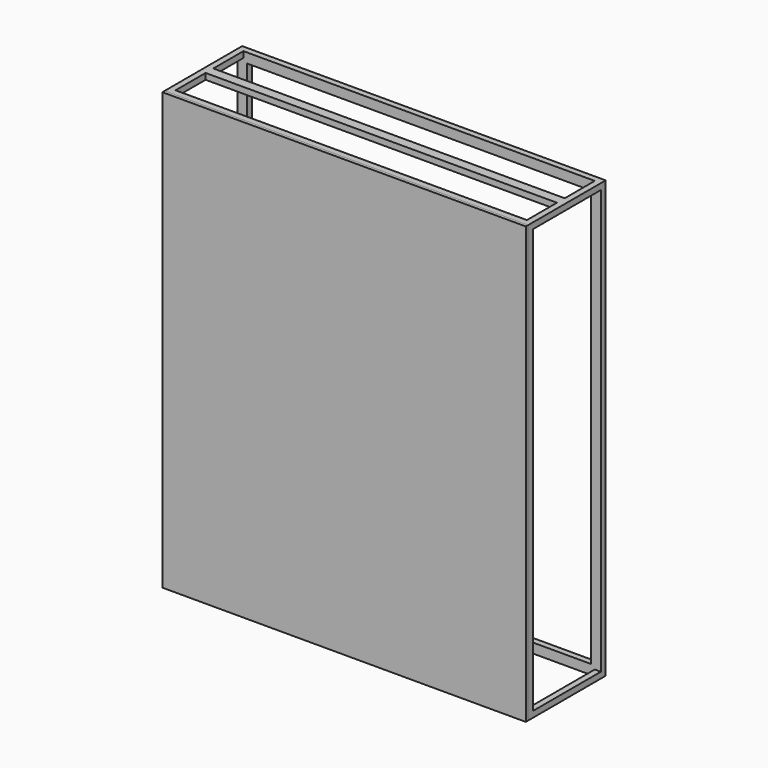
from build123d import *

# Parameters (mm, degrees)
F0_W      = 1500
F0_H      = 400
F1_DEPTH  = 900
F2_W      = 1420
F2_H      = 1720
F3_DEPTH  = 400.001
F4_W      = 350
F4_H      = 1750
F5_DEPTH  = 1500.001
F6_W      = 1450
F6_H      = 350
F7_DEPTH  = 1800.001
F8_W      = 1450
F8_H      = 40
F9_DEPTH  = 25
F11_W     = 1500
F11_H     = 1800
F12_DEPTH = 12


with BuildPart() as f1:
    # F0 (on Top) → F1 (new body, symmetric)
    with BuildSketch(Plane.XY):
        Rectangle(F0_W, F0_H)
    extrude(amount=F1_DEPTH, both=True)

    # F2 (on face) → F3 (cut, through all)
    with BuildSketch(Plane.XZ.offset(200)):
        Rectangle(F2_W, F2_H)
    extrude(amount=-F3_DEPTH, mode=Mode.SUBTRACT)

    # F4 (on face) → F5 (cut, through all)
    with BuildSketch(Plane.YZ.offset(750)):
        Rectangle(F4_W, F4_H)
    extrude(amount=-F5_DEPTH, mode=Mode.SUBTRACT)

    # F6 (on face) → F7 (cut, through all)
    with BuildSketch(Plane.XY.offset(900)):
        Rectangle(F6_W, F6_H)
    extrude(amount=-F7_DEPTH, mode=Mode.SUBTRACT)

    # F8 (on face) → F9 (join)
    with BuildSketch(Plane.XY.offset(900)):
        Rectangle(F8_W, F8_H)
    extrude(amount=-F9_DEPTH)


with BuildPart() as f12:
    # F11 (on face) → F12 (new body)
    with BuildSketch(Plane.XZ.offset(200)):
        Rectangle(F11_W, F11_H)
    extrude(amount=F12_DEPTH)


solid = Compound([f1.part, f12.part])
